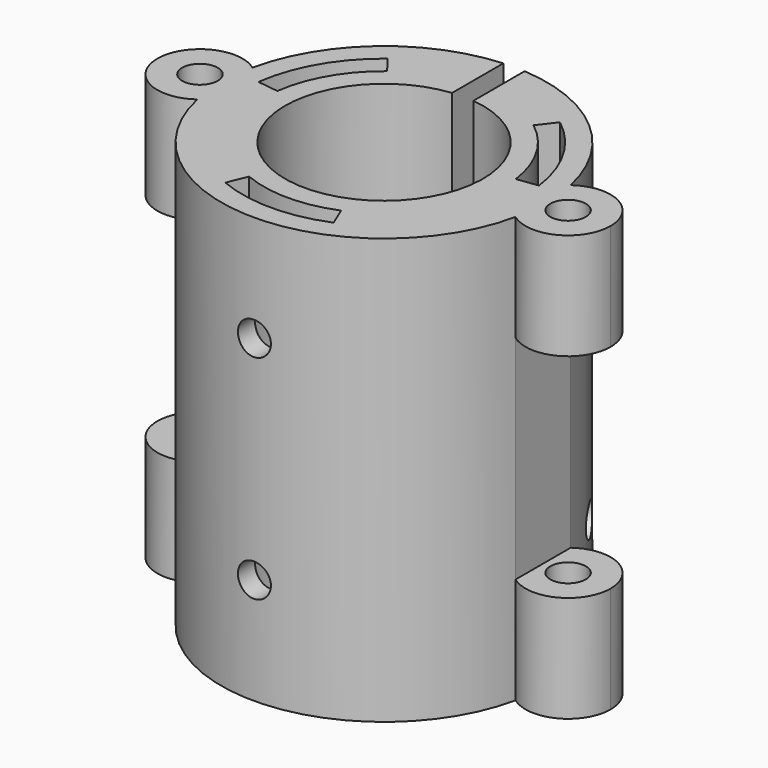
from build123d import *

# Parameters (mm, degrees)
F0_R      = 7.65
F0_R_2    = 4.65
F1_DEPTH  = 20
F4_DEPTH  = 20.001
F6_R      = 0.775
F7_DEPTH  = 1.0786128078
F9_R      = 0.775
F10_DEPTH = 1.0463142634
F12_R     = 0.775
F13_DEPTH = 1.0463142634
F14_W     = 1
F14_H     = 5.2947397344
F15_DEPTH = 20
F16_R     = 0.835
F17_DEPTH = 20
F18_W     = 3.1734104046
F18_H     = 10
F19_DEPTH = 15.2846427429


with BuildPart() as f1:
    # F0 (on Top) → F1 (new body)
    with BuildSketch(Plane.XY):
        Circle(F0_R)
        Circle(F0_R_2, mode=Mode.SUBTRACT)
    extrude(amount=F1_DEPTH)

    # F2 (on face) → F4 (cut, through all)
    with BuildSketch(Plane.XY.offset(20)):
        with BuildLine():
            Line((-3.4395020739, 4.4824463726), (-4.0482635029, 5.2757997129))
            ThreePointArc((-4.0482635029, 5.2757997129), (-5.7590689352, 3.325), (-6.5931083281, 0.8679991783))
            Line((-6.5931083281, 0.8679991783), (-5.6016634668, 0.737472986))
            ThreePointArc((-5.6016634668, 0.737472986), (-4.8930435314, 2.825), (-3.4395020739, 4.4824463726))
        make_face()
        with BuildLine():
            Line((4.0482635029, 5.2757997129), (3.4395020739, 4.4824463726))
            ThreePointArc((3.4395020739, 4.4824463726), (4.8930435314, 2.825), (5.6016634668, 0.737472986))
            Line((5.6016634668, 0.737472986), (6.5931083281, 0.8679991783))
            ThreePointArc((6.5931083281, 0.8679991783), (5.7590689352, 3.325), (4.0482635029, 5.2757997129))
        make_face()
        with BuildLine():
            ThreePointArc((2.1621613929, -5.2199193587), (0, -5.65), (-2.1621613929, -5.2199193587))
            Line((-2.1621613929, -5.2199193587), (-2.5448448252, -6.1437988912))
            ThreePointArc((-2.5448448252, -6.1437988912), (0, -6.65), (2.5448448252, -6.1437988912))
            Line((2.5448448252, -6.1437988912), (2.1621613929, -5.2199193587))
        make_face()
    extrude(amount=-F4_DEPTH, mode=Mode.SUBTRACT)

    # F6 (on line) → F7 (cut, through all)
    with BuildSketch(Plane(origin=(-6.625094339, 3.825, 0), x_dir=(0.5, 0.8660254038, 0), z_dir=(0.8660254038, -0.5, 0))):
        with Locations((0, 15)):
            Circle(F6_R)
        with Locations((-0.2380277795, 5.0028332626)):
            Circle(F6_R)
    extrude(amount=F7_DEPTH, mode=Mode.SUBTRACT)

    # F9 (on line) → F10 (cut, through all)
    with BuildSketch(Plane.XZ.offset(7.65)):
        with Locations((0, 5)):
            Circle(F9_R)
        with Locations((0, 15)):
            Circle(F9_R)
    extrude(amount=-F10_DEPTH, mode=Mode.SUBTRACT)

    # F12 (on line) → F13 (cut, through all)
    with BuildSketch(Plane(origin=(6.625094339, 3.825, 0), x_dir=(-0.5, 0.8660254038, 0), z_dir=(0.8660254038, 0.5, 0))):
        with Locations((0, 5)):
            Circle(F12_R)
        with Locations((0, 15)):
            Circle(F12_R)
    extrude(amount=-F13_DEPTH, mode=Mode.SUBTRACT)

    # F14 (on face) → F15 (cut, through all)
    with BuildSketch(Plane(origin=(0, 0, 0), x_dir=(1, 0, 0), z_dir=(0, 0, -1))):
        with Locations((0, -6.6740161274)):
            Rectangle(F14_W, F14_H)
    extrude(amount=-F15_DEPTH, mode=Mode.SUBTRACT)

    # F16 (on face) → F17 (join, through all)
    with BuildSketch(Plane.XY.offset(20)):
        with BuildLine():
            ThreePointArc((-7.4765895954, -1.6196011924), (-7.65, 0), (-7.4765895954, 1.6196011924))
            ThreePointArc((-7.4765895954, 1.6196011924), (-10.65, 0), (-7.4765895954, -1.6196011924))
        make_face()
        with Locations((-8.65, 0)):
            Circle(F16_R, mode=Mode.SUBTRACT)
        with BuildLine():
            ThreePointArc((7.4765895954, -1.6196011924), (9.5591697286, -1.7814068611), (10.65, 0))
            ThreePointArc((10.65, 0), (9.5591697286, 1.7814068611), (7.4765895954, 1.6196011924))
            ThreePointArc((7.4765895954, 1.6196011924), (7.606523858, 0.8144291238), (7.65, 0))
            ThreePointArc((7.65, 0), (7.606523858, -0.8144291238), (7.4765895954, -1.6196011924))
        make_face()
        with Locations((8.65, 0)):
            Circle(F16_R, mode=Mode.SUBTRACT)
    extrude(amount=-F17_DEPTH)

    # F18 (on line) → F19 (cut, through all)
    with BuildSketch(Plane.XZ.offset(7.65)):
        with Locations((-9.0632947977, 10)):
            Rectangle(F18_W, F18_H)
        with Locations((9.0632947977, 10)):
            Rectangle(F18_W, F18_H)
    extrude(amount=-F19_DEPTH, mode=Mode.SUBTRACT)


solid = f1.part
